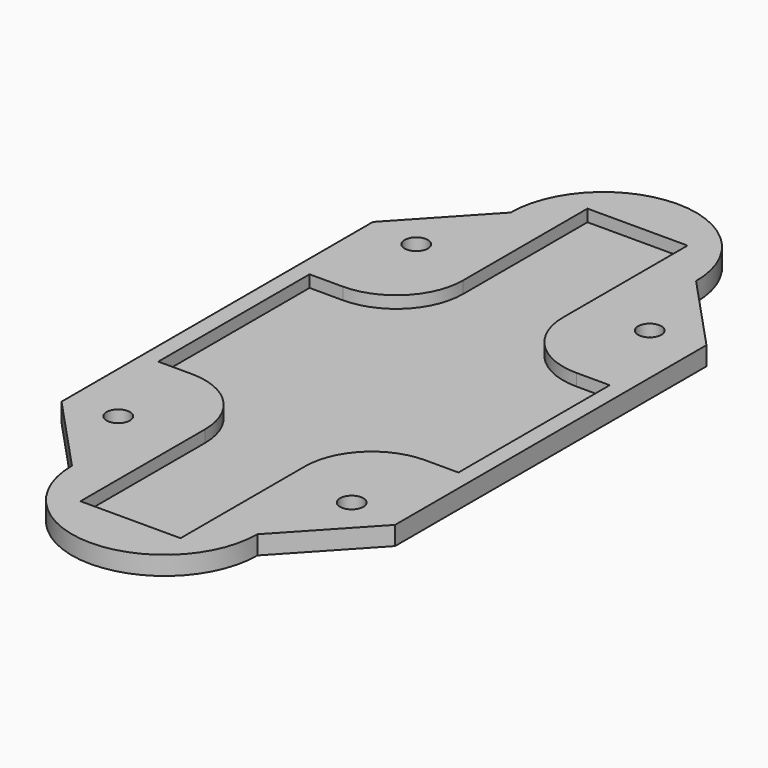
from build123d import *

# Parameters (mm, degrees)
F1_DEPTH      = 50.8
F2_W          = 31.75
F2_H          = 35.56
F2_W_2        = 25.4
F3_DEPTH      = 38.1
F4_W          = 31.75
F4_H          = 35.56
F4_W_2        = 25.4
F5_DEPTH      = 38.1
F6_R          = 4.445
F7_DEPTH      = 43.181
F7_DEPTH_BACK = 5.08
F8_W          = 38.1
F8_H          = 72.0014913142
F8_H_2        = 84.6492543429
F9_DEPTH      = 48.26
F10_R         = 25.4
F11_W         = 133.5816735625
F11_H         = 43.6864450194
F12_DEPTH     = 176.022


with BuildPart() as f1:
    # F0 (on Top) → F1 (new body)
    with BuildSketch(Plane.XY):
        with BuildLine():
            Line((63.5, 74.1007456571), (18.0570790654, 74.1007456571))
            ThreePointArc((18.0570790654, 74.1007456571), (0, 69.1302912268), (-18.0570790654, 74.1007456571))
            Line((-18.0570790654, 74.1007456571), (-63.5, 74.1007456571))
            Line((-63.5, 74.1007456571), (-63.5, 0))
            Line((-63.5, 0), (63.5, 0))
            Line((63.5, 0), (63.5, 74.1007456571))
        make_face()
        with BuildLine():
            Line((63.5, -74.1007456571), (63.5, 0))
            Line((63.5, 0), (-63.5, 0))
            Line((-63.5, 0), (-63.5, -74.1007456571))
            Line((-63.5, -74.1007456571), (-18.0570790654, -74.1007456571))
            ThreePointArc((-18.0570790654, -74.1007456571), (0, -69.1302912268), (18.0570790654, -74.1007456571))
            Line((18.0570790654, -74.1007456571), (63.5, -74.1007456571))
        make_face()
        with BuildLine():
            ThreePointArc((35.2848543866, -104.4151456134), (30.6770464236, -86.9812770867), (18.0570790654, -74.1007456571))
            ThreePointArc((18.0570790654, -74.1007456571), (0, -69.1302912268), (-18.0570790654, -74.1007456571))
            ThreePointArc((-18.0570790654, -74.1007456571), (-30.6770464236, -86.9812770867), (-35.2848543866, -104.4151456134))
            ThreePointArc((-35.2848543866, -104.4151456134), (0, -139.7), (35.2848543866, -104.4151456134))
        make_face()
        with BuildLine():
            Line((-18.0570790654, -74.1007456571), (-63.5, -74.1007456571))
            Line((-63.5, -74.1007456571), (-35.2848543866, -104.4151456134))
            ThreePointArc((-35.2848543866, -104.4151456134), (-30.6770464236, -86.9812770867), (-18.0570790654, -74.1007456571))
        make_face()
        with BuildLine():
            Line((35.2848543866, -104.4151456134), (63.5, -74.1007456571))
            Line((63.5, -74.1007456571), (18.0570790654, -74.1007456571))
            ThreePointArc((18.0570790654, -74.1007456571), (30.6770464236, -86.9812770867), (35.2848543866, -104.4151456134))
        make_face()
        with BuildLine():
            ThreePointArc((18.0570790654, 74.1007456571), (30.6770464236, 86.9812770867), (35.2848543866, 104.4151456134))
            ThreePointArc((35.2848543866, 104.4151456134), (0, 139.7), (-35.2848543866, 104.4151456134))
            ThreePointArc((-35.2848543866, 104.4151456134), (-30.6770464236, 86.9812770867), (-18.0570790654, 74.1007456571))
            ThreePointArc((-18.0570790654, 74.1007456571), (0, 69.1302912268), (18.0570790654, 74.1007456571))
        make_face()
        with BuildLine():
            Line((63.5, 74.1007456571), (35.2848543866, 104.4151456134))
            ThreePointArc((35.2848543866, 104.4151456134), (30.6770464236, 86.9812770867), (18.0570790654, 74.1007456571))
            Line((18.0570790654, 74.1007456571), (63.5, 74.1007456571))
        make_face()
        with BuildLine():
            ThreePointArc((-18.0570790654, 74.1007456571), (-30.6770464236, 86.9812770867), (-35.2848543866, 104.4151456134))
            Line((-35.2848543866, 104.4151456134), (-63.5, 74.1007456571))
            Line((-63.5, 74.1007456571), (-18.0570790654, 74.1007456571))
        make_face()
    extrude(amount=F1_DEPTH)

    # F2 (on face) → F3 (cut)
    with BuildSketch(Plane.YZ.offset(63.5)):
        with Locations((-58.2257456571, 25.4)):
            Rectangle(F2_W, F2_H)
        with Locations((-86.8007456571, 25.4)):
            Rectangle(F2_W_2, F2_H)
        with Locations((86.8007456571, 25.4)):
            Rectangle(F2_W_2, F2_H)
        with Locations((58.2257456571, 25.4)):
            Rectangle(F2_W, F2_H)
    extrude(amount=-F3_DEPTH, mode=Mode.SUBTRACT)

    # F4 (on face) → F5 (cut)
    with BuildSketch(Plane(origin=(-63.5, 0, 0), x_dir=(0, -1, 0), z_dir=(-1, 0, 0))):
        with Locations((-58.2257456571, 25.4)):
            Rectangle(F4_W, F4_H)
        with Locations((-86.8007456571, 25.4)):
            Rectangle(F4_W_2, F4_H)
        with Locations((58.2257456571, 25.4)):
            Rectangle(F4_W, F4_H)
        with Locations((86.8007456571, 25.4)):
            Rectangle(F4_W_2, F4_H)
    extrude(amount=-F5_DEPTH, mode=Mode.SUBTRACT)

    # F6 (on face) → F7 (cut, two sides)
    with BuildSketch(Plane.XY.offset(7.62)) as f7_sk:
        with Locations((-44.45, 70.9257456571)):
            Circle(F6_R)
        with Locations((-44.45, -70.9257456571)):
            Circle(F6_R)
        with Locations((44.45, 70.9257456571)):
            Circle(F6_R)
        with Locations((44.45, -70.9257456571)):
            Circle(F6_R)
    extrude(amount=F7_DEPTH, mode=Mode.SUBTRACT)
    extrude(f7_sk.sketch, amount=-F7_DEPTH_BACK, mode=Mode.SUBTRACT)

    # F8 (on face) → F9 (cut)
    with BuildSketch(Plane.XY.offset(50.8)):
        Rectangle(F8_W, F8_H)
        with Locations((38.1, 0)):
            Rectangle(F8_W, F8_H)
        with Locations((0, -78.3253728285)):
            Rectangle(F8_W, F8_H_2)
        with Locations((0, 78.3253728285)):
            Rectangle(F8_W, F8_H_2)
        with Locations((-38.1, 0)):
            Rectangle(F8_W, F8_H)
    extrude(amount=-F9_DEPTH, mode=Mode.SUBTRACT)

    # F10
    f10_edges = [f1.edges().sort_by_distance(p)[0] for p in [
        (-25.4, 42.350746, 25.4),
        (-25.4, -42.350746, 25.4),
        (25.4, -42.350746, 25.4),
        (25.4, 42.350746, 25.4),
        (19.05, -36.000746, 26.67),
        (-19.05, -36.000746, 26.67),
        (19.05, 36.000746, 26.67),
        (-19.05, 36.000746, 26.67),
    ]]
    fillet(f10_edges, radius=F10_R)

    # F11 (on Front) → F12 (cut, symmetric)
    with BuildSketch(Plane.XZ):
        with Locations((3.2908367813, 28.9567774903)):
            Rectangle(F11_W, F11_H)
    extrude(amount=F12_DEPTH, both=True, mode=Mode.SUBTRACT)


solid = f1.part
